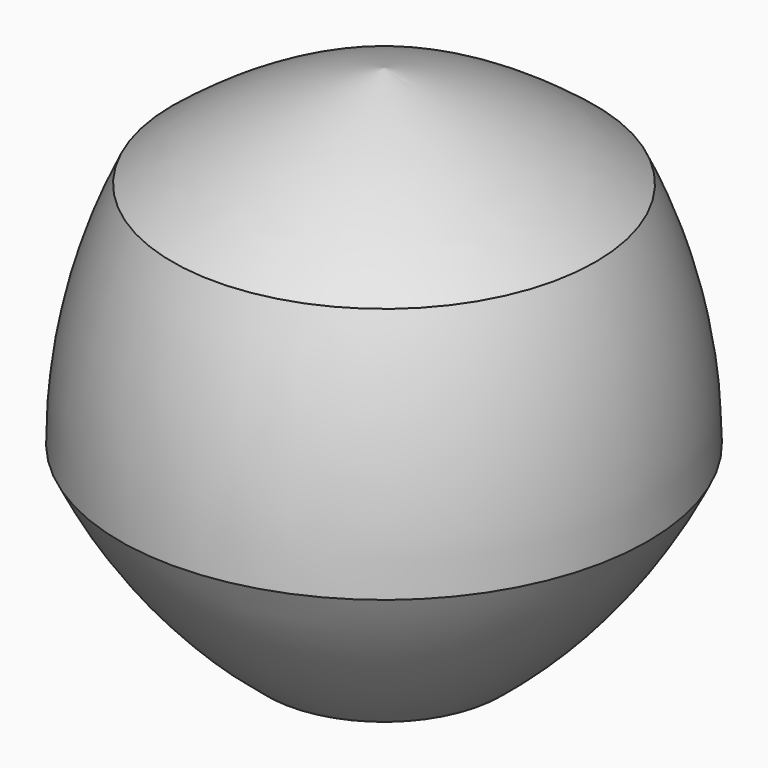
from build123d import *


with BuildPart() as f1:
    # F0 (on Front) → F1 (revolve)
    with BuildSketch(Plane.XZ):
        Polygon((0, -26.718669), (12.867033, -26.718669), (28.91196, -6.598966), (23.185592, 18.489892), (0, 29.655485), align=None)
        with BuildLine():
            ThreePointArc((0, -34.48212), (6.686793, -31.020171), (12.867033, -26.718669))
            ThreePointArc((12.867033, -26.718669), (6.474225, -27.80485), (0, -28.168435))
            ThreePointArc((0, -28.168435), (-6.474225, -27.80485), (-12.867033, -26.718669))
            ThreePointArc((-12.867033, -26.718669), (-6.686793, -31.020171), (0, -34.48212))
        make_face()
        with BuildLine():
            Line((28.91196, -6.598966), (12.867033, -26.718669))
            ThreePointArc((12.867033, -26.718669), (22.022969, -17.562732), (28.91196, -6.598966))
        make_face()
        with BuildLine():
            Line((23.185592, 18.489892), (28.91196, -6.598966))
            ThreePointArc((28.91196, -6.598966), (27.462194, 6.268066), (23.185592, 18.489892))
        make_face()
        with BuildLine():
            ThreePointArc((23.185592, 18.489892), (12.221826, 25.378883), (0, 29.655485))
            Line((0, 29.655485), (23.185592, 18.489892))
        make_face()
    revolve(axis=Axis((0, 0, -0.429639), (0, 0, -1)))


solid = f1.part
